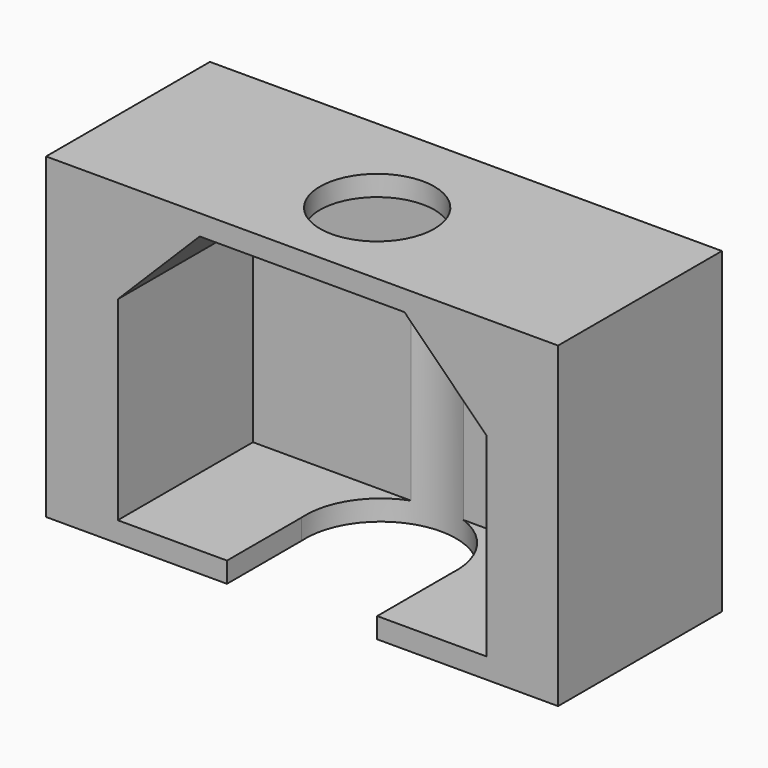
from build123d import *

# Parameters (mm, degrees)
F0_W     = 30
F0_H     = 18.6
F1_DEPTH = 12
F3_START = 7.4
F2_R     = 3.35
F3_DEPTH = 27.8
F4_DEPTH = 2.1
F5_DEPTH = 11.2


with BuildPart() as f1:
    # F0 (on Front) → F1 (new body)
    with BuildSketch(Plane.XZ):
        with Locations((-15, 9.3)):
            Rectangle(F0_W, F0_H)
        Polygon((-21, 17.4), (-15, 17.4), (-9, 17.4), (-4.2, 17.4), (-4.2, 12.6), (-4.2, 9.3), (-4.2, 1.2), (-15, 1.2), (-25.8, 1.2), (-25.8, 9.3), (-25.8, 12.6), (-25.8, 17.4), align=None, mode=Mode.SUBTRACT)
        Polygon((-25.8, 12.6), (-21, 17.4), (-25.8, 17.4), align=None)
        Polygon((-4.2, 17.4), (-9, 17.4), (-4.2, 12.6), align=None)
    extrude(amount=F1_DEPTH)

    # F2 (on Top) → F3 (cut)
    with BuildSketch(Plane.XY.offset(F3_START)):
        with Locations((-15, -6.5)):
            Circle(F2_R)
    extrude(amount=F3_DEPTH, mode=Mode.SUBTRACT)

    # F0 (on Front) → F4 (join)
    with BuildSketch(Plane.XZ):
        Polygon((-9, 17.4), (-15, 17.4), (-21, 17.4), (-25.8, 12.6), (-25.8, 9.3), (-25.8, 1.2), (-15, 1.2), (-4.2, 1.2), (-4.2, 9.3), (-4.2, 12.6), align=None)
    extrude(amount=F4_DEPTH)

    # F2 (on Top) → F5 (cut)
    with BuildSketch(Plane.XY):
        with BuildLine():
            Line((-19.3997538172, -14.9291978362), (-18.3492293667, -15.2891640001))
            Line((-18.3492293667, -15.2891640001), (-15, -14.3958181143))
            Line((-15, -14.3958181143), (-11.6507706333, -15.2891640001))
            Line((-11.6507706333, -15.2891640001), (-10.6002461828, -14.9291978362))
            Line((-10.6002461828, -14.9291978362), (-10.6002461828, -6.5465440438))
            ThreePointArc((-10.6002461828, -6.5465440438), (-15, -10.9), (-19.3997538172, -6.5465440438))
            Line((-19.3997538172, -6.5465440438), (-19.3997538172, -14.9291978362))
        make_face()
        with BuildLine():
            ThreePointArc((-10.6002461828, -6.5465440438), (-15, -1.8248851289), (-19.3997538172, -6.5465440438))
            ThreePointArc((-19.3997538172, -6.5465440438), (-15.0232723474, -2.1000615461), (-10.6, -6.5))
            ThreePointArc((-10.6, -6.5), (-10.6000615461, -6.5232723474), (-10.6002461828, -6.5465440438))
        make_face()
        with BuildLine():
            ThreePointArc((-10.6, -6.5), (-15.0232723474, -2.1000615461), (-19.3997538172, -6.5465440438))
            ThreePointArc((-19.3997538172, -6.5465440438), (-15, -10.9), (-10.6002461828, -6.5465440438))
            ThreePointArc((-10.6002461828, -6.5465440438), (-10.6000615461, -6.5232723474), (-10.6, -6.5))
        make_face()
        with Locations((-15, -6.5)):
            Circle(F2_R, mode=Mode.SUBTRACT)
        with Locations((-15, -6.5)):
            Circle(F2_R)
    extrude(amount=F5_DEPTH, mode=Mode.SUBTRACT)


solid = f1.part
